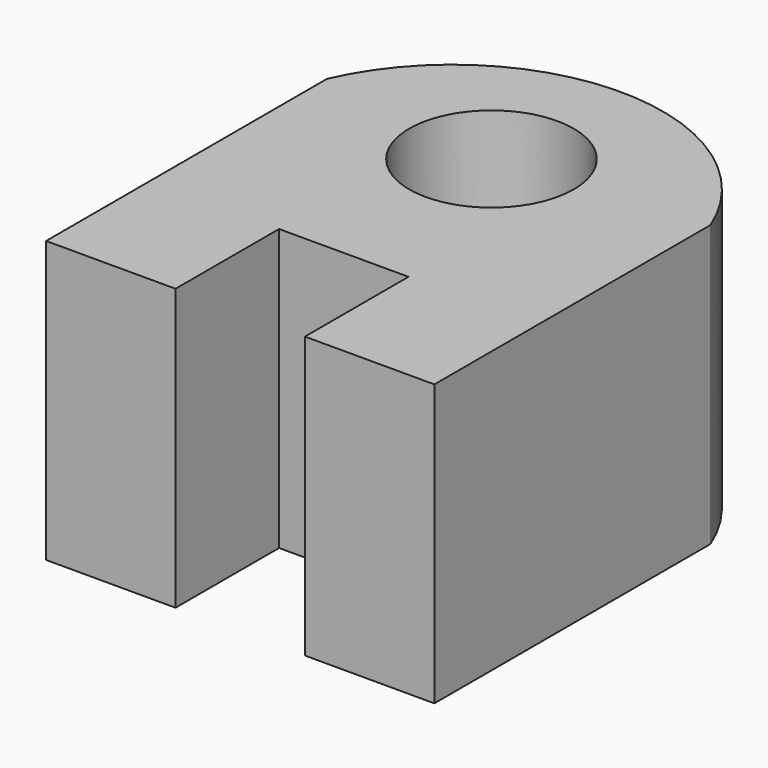
from build123d import *

# Parameters (mm, degrees)
F1_DEPTH = 25.4
F2_DEPTH = 25.4
F3_R     = 14.8837402169
F4_DEPTH = 50.801


with BuildPart() as f1:
    # F0 (on Top) → F1 (new body)
    with BuildSketch(Plane.XY):
        with BuildLine():
            Line((36.7723161906, -34.965459034), (36.7723161906, 27.4711334495))
            ThreePointArc((36.7723161906, 27.4711334495), (2.0053244918, 51.3401081734), (-33.4688444361, 28.5353936383))
            Line((-33.4688444361, 28.5353936383), (-33.4688444361, -34.965459034))
            Line((-33.4688444361, -34.965459034), (-10.0551242272, -34.965459034))
            Line((-10.0551242272, -34.965459034), (-10.0551242272, -11.5517388251))
            Line((-10.0551242272, -11.5517388251), (13.3585959817, -11.5517388251))
            Line((13.3585959817, -11.5517388251), (13.3585959817, -34.965459034))
            Line((13.3585959817, -34.965459034), (36.7723161906, -34.965459034))
        make_face()
    extrude(amount=F1_DEPTH)

    # F2 (add): a face of the model
    f2_faces = [f1.faces().sort_by_distance(p)[0] for p in [
        (1.5994102658, 8.2877292007, 25.4),
    ]]
    extrude(f2_faces, amount=F2_DEPTH)

    # F3 (on face) → F4 (cut, through all)
    with BuildSketch(Plane.XY.offset(50.8)):
        with Locations((0, 23.9132437855)):
            Circle(F3_R)
    extrude(amount=-F4_DEPTH, mode=Mode.SUBTRACT)


solid = f1.part
